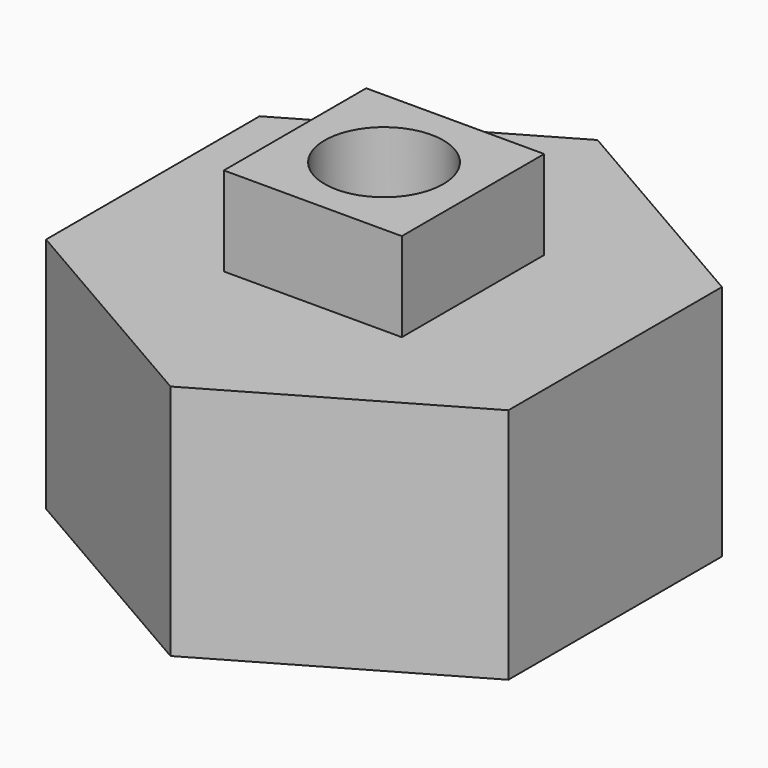
from build123d import *

# Parameters (mm, degrees)
F1_DEPTH = 40
F2_W     = 30
F2_H     = 30
F3_DEPTH = 15
F4_R     = 10
F5_DEPTH = 40


with BuildPart() as f1:
    # F0 (on Top) → F1 (new body)
    with BuildSketch(Plane.XY):
        Polygon((38.971143, -22.5), (38.971143, 22.5), (0, 45), (-38.971143, 22.5), (-38.971143, -22.5), (0, -45), align=None)
    extrude(amount=F1_DEPTH)

    # F2 (on face) → F3 (join)
    with BuildSketch(Plane.XY.offset(40)):
        Rectangle(F2_W, F2_H)
    extrude(amount=F3_DEPTH)

    # F4 (on face) → F5 (cut)
    with BuildSketch(Plane.XY.offset(55)):
        Circle(F4_R)
    extrude(amount=-F5_DEPTH, mode=Mode.SUBTRACT)


solid = f1.part
